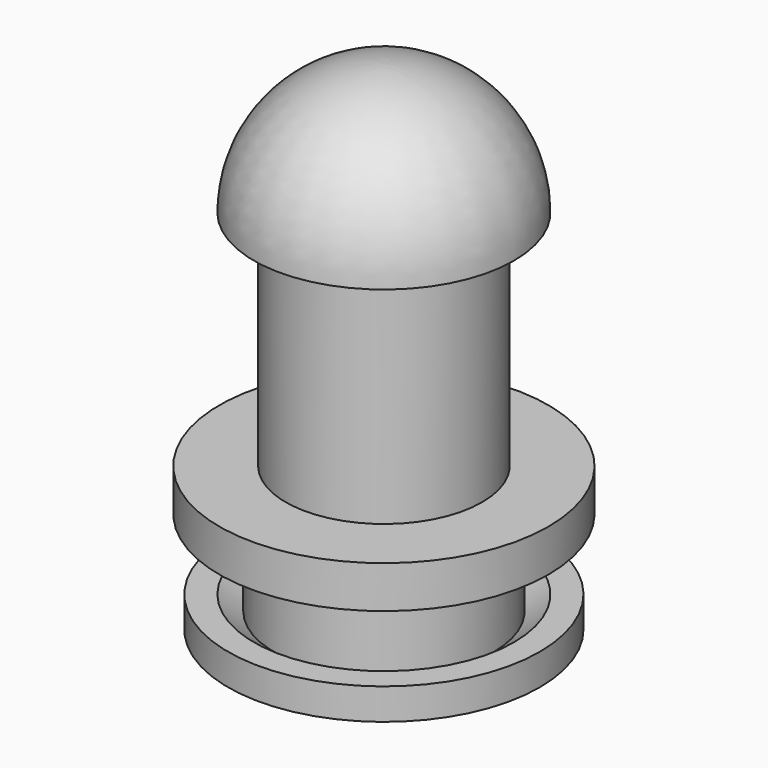
from build123d import *


with BuildPart() as f1:
    # F0 (on Front) → F1 (revolve)
    with BuildSketch(Plane.XZ):
        Polygon((18.979287, 4.560466), (16.028518, 2.369901), (16.028518, 0), (22.742647, 0), (22.742647, 4.560466), align=None)
        with BuildLine():
            Line((0, 72.556853), (0, -9.529206))
            Line((0, -9.529206), (16.028518, 2.369901))
            Line((16.028518, 2.369901), (16.028518, 14.887491))
            Line((16.028518, 14.887491), (24.002494, 14.887491))
            Line((24.002494, 14.887491), (24.002494, 21.048961))
            Line((24.002494, 21.048961), (14.339714, 21.048961))
            Line((14.339714, 21.048961), (14.339714, 53.577566))
            Line((14.339714, 53.577566), (18.979287, 53.577566))
            ThreePointArc((18.979287, 53.577566), (13.420383, 66.997949), (0, 72.556853))
        make_face()
    revolve(axis=Axis((0, 0, 31.513824), (0, 0, 1)))


solid = f1.part
